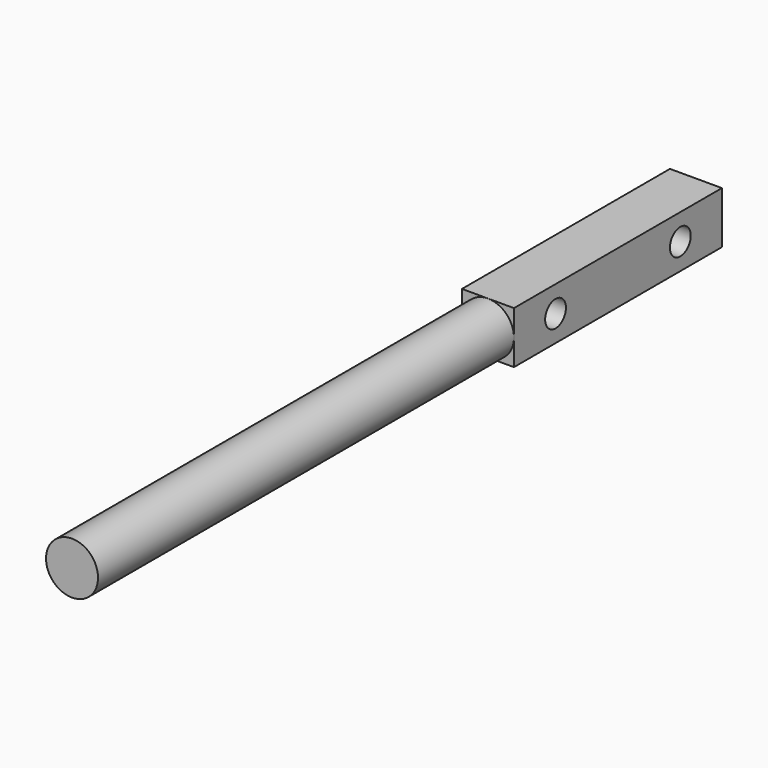
from build123d import *

# Parameters (mm, degrees)
F0_R     = 0.25
F1_DEPTH = 5
F2_W     = 0.5
F2_H     = 0.5
F3_DEPTH = 2.5
F4_R     = 0.125
F5_DEPTH = 0.501


with BuildPart() as f1:
    # F0 (on Front) → F1 (new body)
    with BuildSketch(Plane.XZ):
        Circle(F0_R)
    extrude(amount=F1_DEPTH)

    # F2 (on Front) → F3 (join)
    with BuildSketch(Plane.XZ):
        Rectangle(F2_W, F2_H)
    extrude(amount=-F3_DEPTH)

    # F4 (on face) → F5 (cut, through all)
    with BuildSketch(Plane(origin=(-0.25, 0, 0), x_dir=(0, -1, 0), z_dir=(-1, 0, 0))):
        with Locations((-2, 0)):
            Circle(F4_R)
        with Locations((-0.5, 0)):
            Circle(F4_R)
    extrude(amount=-F5_DEPTH, mode=Mode.SUBTRACT)


solid = f1.part
